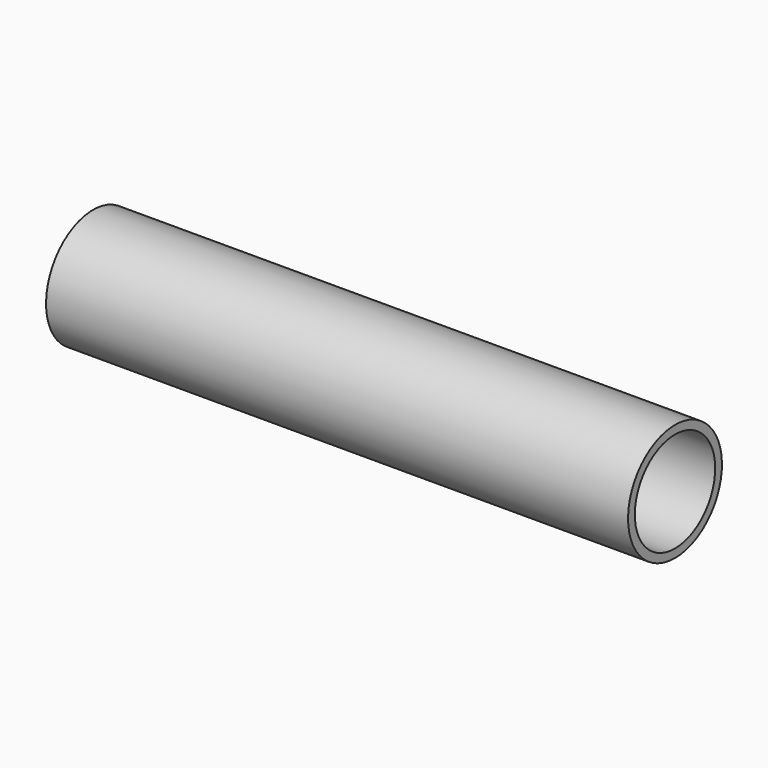
from build123d import *

# Parameters (mm, degrees)
CYLINDER004_R           = 10.7
CYLINDER004_DEPTH       = 27
CYLINDER004_PITCH_ANGLE = 90
CYLINDER003_R           = 11.1
CYLINDER003_DEPTH       = 97
CYLINDER003_PITCH_ANGLE = 90
CYLINDER002_R           = 12.5
CYLINDER002_DEPTH       = 124
CYLINDER002_PITCH_ANGLE = 90


with BuildPart() as cylinder002:
    # Cylinder004 → Cylinder004 (new body)
    with BuildSketch(Plane.XY):
        Circle(CYLINDER004_R)
    extrude(amount=CYLINDER004_DEPTH)


with BuildPart() as cylinder002_1:
    # Cylinder004 pitch: moved
    add(cylinder002.part.rotate(Axis((0, 0, 0), (0, 1, 0)), CYLINDER004_PITCH_ANGLE))


with BuildPart() as cylinder002_2:
    # Cylinder004 placement: moved
    add(cylinder002_1.part.moved(Location((171, 0, 0))))


with BuildPart() as cylinder001:
    # Cylinder003 → Cylinder003 (new body)
    with BuildSketch(Plane.XY):
        Circle(CYLINDER003_R)
    extrude(amount=CYLINDER003_DEPTH)


with BuildPart() as cylinder001_1:
    # Cylinder003 pitch: moved
    add(cylinder001.part.rotate(Axis((0, 0, 0), (0, 1, 0)), CYLINDER003_PITCH_ANGLE))


with BuildPart() as cylinder001_2:
    # Cylinder003 placement: moved
    add(cylinder001_1.part.moved(Location((74, 0, 0))))


with BuildPart() as batteryholder:
    # Cylinder002 → Cylinder002 (new body)
    with BuildSketch(Plane.XY):
        Circle(CYLINDER002_R)
    extrude(amount=CYLINDER002_DEPTH)


with BuildPart() as batteryholder_1:
    # Cylinder002 pitch: moved
    add(batteryholder.part.rotate(Axis((0, 0, 0), (0, 1, 0)), CYLINDER002_PITCH_ANGLE))


with BuildPart() as batteryholder_2:
    # Cylinder002 placement: moved
    add(batteryholder_1.part.moved(Location((74, 0, 0))))

    # Cut001: cut Cylinder001
    add(cylinder001_2.part, mode=Mode.SUBTRACT)

    # Cut002: cut Cylinder002
    add(cylinder002_2.part, mode=Mode.SUBTRACT)


solid = batteryholder_2.part
